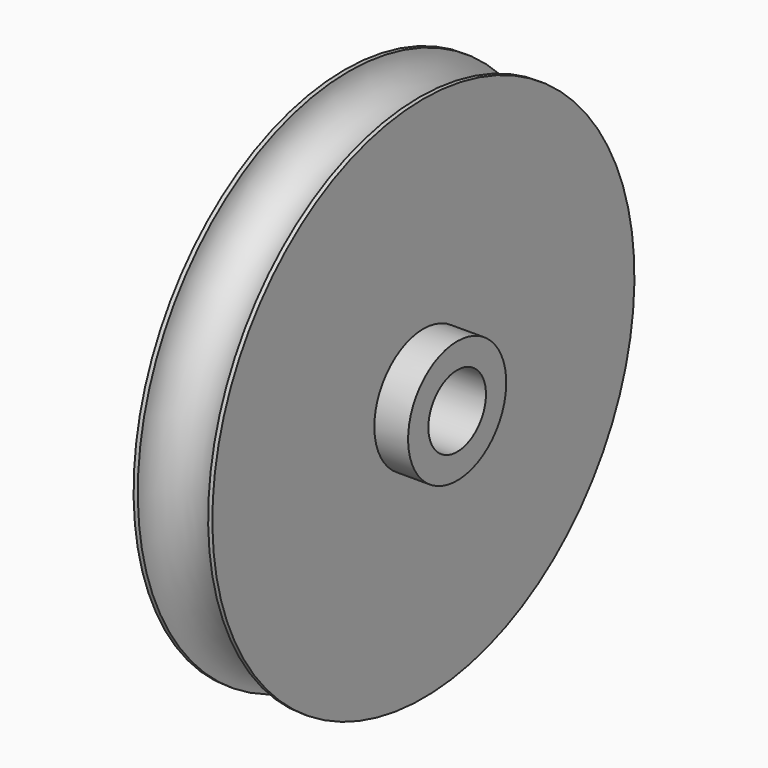
from build123d import *


with BuildPart() as f1:
    # F0 (on Front) → F1 (revolve)
    with BuildSketch(Plane.XZ):
        with BuildLine():
            Line((0, 23.8125), (0, 3.2512))
            Line((0, 3.2512), (10.16, 3.2512))
            Line((10.16, 3.2512), (10.16, 5.5372))
            Line((10.16, 5.5372), (7.112, 5.5372))
            Line((7.112, 5.5372), (7.112, 23.8125))
            Line((7.112, 23.8125), (6.731, 23.8125))
            ThreePointArc((6.731, 23.8125), (3.556, 20.6375), (0.381, 23.8125))
            Line((0.381, 23.8125), (0, 23.8125))
        make_face()
    revolve(axis=Axis((6.071118, 0, 0), (1, 0, 0)))


solid = f1.part
